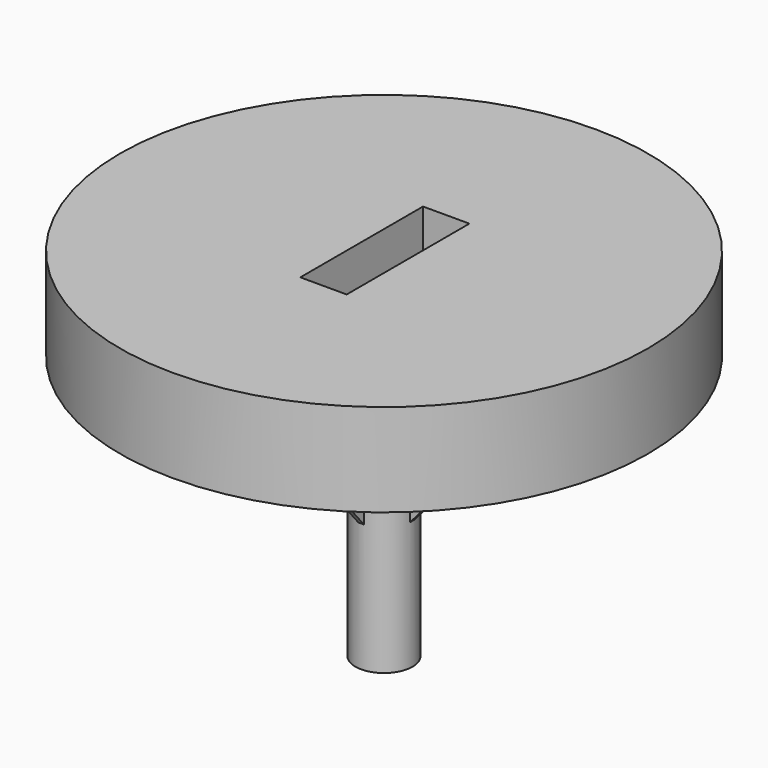
from build123d import *

# Parameters (mm, degrees)
CYLINDER_R                 = 4
CYLINDER_DEPTH             = 40
BOX002_W                   = 40
BOX002_H                   = 0.8
BOX002_DEPTH               = 20
CHAMFER_1_SIZE2            = 16
CHAMFER_1_SIZE             = 19
CHAMFER_2_SIZE2            = 16
CHAMFER_2_SIZE             = 19
BOX003_W                   = 40
BOX003_H                   = 0.8
BOX003_DEPTH               = 20
CHAMFER001_1_SIZE2         = 16
CHAMFER001_1_SIZE          = 19
CHAMFER001_2_SIZE2         = 16
CHAMFER001_2_SIZE          = 19
CHAMFER001_PLACEMENT_ANGLE = 90
BOX001_W                   = 6.5
BOX001_H                   = 21.5
BOX001_DEPTH               = 10
CYLINDER002_R              = 37
CYLINDER002_DEPTH          = 13


with BuildPart() as obj1:
    # Cylinder → Cylinder (new body)
    with BuildSketch(Plane.XY.offset(-10)):
        Circle(CYLINDER_R)
    extrude(amount=CYLINDER_DEPTH)


with BuildPart() as chamfer_body:
    # Box002 → Box002 (new body)
    with BuildSketch(Plane(origin=(-20, -0.4, 8), x_dir=(1, 0, 0), z_dir=(0, 0, 1))):
        with Locations((20, 0.4)):
            Rectangle(BOX002_W, BOX002_H)
    extrude(amount=BOX002_DEPTH)

    # Chamfer 1
    chamfer_1_edges = [chamfer_body.edges().sort_by_distance(p)[0] for p in [
        (20, 0, 8),
    ]]
    chamfer_1_side = chamfer_body.faces().sort_by_distance((20, 0, 18))[0]
    chamfer(chamfer_1_edges, length=CHAMFER_1_SIZE, length2=CHAMFER_1_SIZE2, reference=chamfer_1_side)

    # Chamfer 2
    chamfer_2_edges = [chamfer_body.edges().sort_by_distance(p)[0] for p in [
        (-20, 0, 8),
    ]]
    chamfer_2_side = chamfer_body.faces().sort_by_distance((-20, 0, 18))[0]
    chamfer(chamfer_2_edges, length=CHAMFER_2_SIZE, length2=CHAMFER_2_SIZE2, reference=chamfer_2_side)


with BuildPart() as chamfer001:
    # Box003 → Box003 (new body)
    with BuildSketch(Plane(origin=(-20, -0.4, 8), x_dir=(1, 0, 0), z_dir=(0, 0, 1))):
        with Locations((20, 0.4)):
            Rectangle(BOX003_W, BOX003_H)
    extrude(amount=BOX003_DEPTH)

    # Chamfer001 1
    chamfer001_1_edges = [chamfer001.edges().sort_by_distance(p)[0] for p in [
        (20, 0, 8),
    ]]
    chamfer001_1_side = chamfer001.faces().sort_by_distance((20, 0, 18))[0]
    chamfer(chamfer001_1_edges, length=CHAMFER001_1_SIZE, length2=CHAMFER001_1_SIZE2, reference=chamfer001_1_side)

    # Chamfer001 2
    chamfer001_2_edges = [chamfer001.edges().sort_by_distance(p)[0] for p in [
        (-20, 0, 8),
    ]]
    chamfer001_2_side = chamfer001.faces().sort_by_distance((-20, 0, 18))[0]
    chamfer(chamfer001_2_edges, length=CHAMFER001_2_SIZE, length2=CHAMFER001_2_SIZE2, reference=chamfer001_2_side)


with BuildPart() as chamfer001_1:
    # Chamfer001 placement: moved
    add(chamfer001.part.rotate(Axis((0, 0, 0), (0, 0, 1)), CHAMFER001_PLACEMENT_ANGLE))


with BuildPart() as obj2:
    # Box001 → Box001 (new body)
    with BuildSketch(Plane(origin=(-3.25, -10.6, 30), x_dir=(1, 0, 0), z_dir=(0, 0, 1))):
        with Locations((3.25, 10.75)):
            Rectangle(BOX001_W, BOX001_H)
    extrude(amount=BOX001_DEPTH)


with BuildPart() as obj3:
    # Cylinder002 → Cylinder002 (new body)
    with BuildSketch(Plane.XY.offset(27)):
        Circle(CYLINDER002_R)
    extrude(amount=CYLINDER002_DEPTH)

    # Cut: cut obj2
    add(obj2.part, mode=Mode.SUBTRACT)

    # Fusion: union obj1, Chamfer body, Chamfer001
    add(obj1.part)
    add(chamfer_body.part)
    add(chamfer001_1.part)


solid = obj3.part
